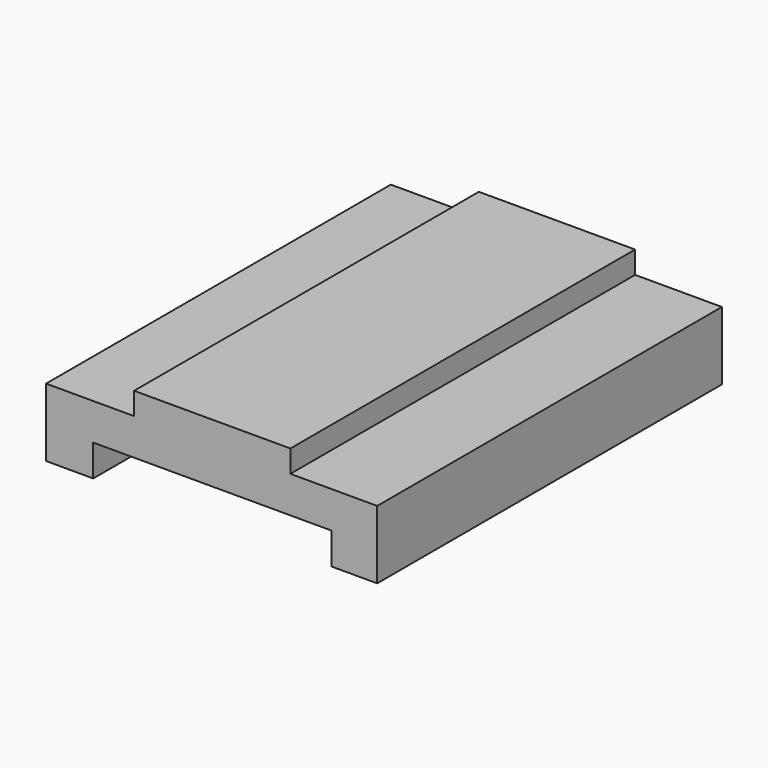
from build123d import *

# Parameters (mm, degrees)
F1_DEPTH = 100
F2_R     = 17.553889
F2_R_2   = 17.797963
F3_DEPTH = 5


with BuildPart() as f1:
    # F0 (on Front) → F1 (new body)
    with BuildSketch(Plane.XZ):
        Polygon((-18.275665, 8.49027), (-27.773255, 8.49027), (-38.709875, 8.49027), (-38.709875, -7.339047), (-27.773255, -7.339047), (-27.773255, 0), (27.485449, 0), (27.485449, -7.339047), (38.134266, -7.339047), (38.134266, 8.49027), (27.485449, 8.49027), (17.98786, 8.49027), (17.98786, 13.670774), (-18.275665, 13.670774), align=None)
    extrude(amount=-F1_DEPTH)

    # F2 (on Top) → F3 (join)
    with BuildSketch(Plane.XY):
        with Locations((0, 28.528551)):
            Circle(F2_R)
        with Locations((0, 78.101397)):
            Circle(F2_R_2)
    extrude(amount=-F3_DEPTH)


solid = f1.part
